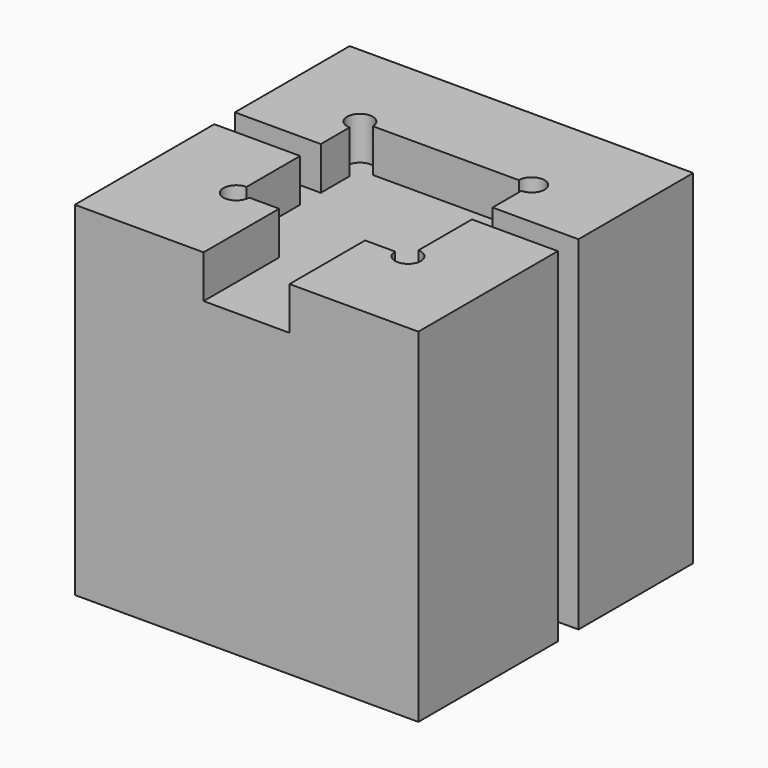
from build123d import *

# Parameters (mm, degrees)
F0_W     = 40
F0_H     = 40
F1_DEPTH = 40
F2_W     = 10
F2_H     = 11
F3_DEPTH = 5
F4_W     = 3
F4_H     = 3
F5_DEPTH = 40.001
F6_W     = 3
F6_H     = 5
F7_DEPTH = 40.001


with BuildPart() as f1:
    # F0 (on Top) → F1 (new body)
    with BuildSketch(Plane.XY):
        Rectangle(F0_W, F0_H)
    extrude(amount=F1_DEPTH)

    # F2 (on face) → F3 (cut)
    with BuildSketch(Plane.XY.offset(40)):
        with BuildLine():
            ThreePointArc((-10, 7.5), (-8.9393398282, 7.9393398282), (-8.5, 9))
            Line((-8.5, 9), (-10, 9))
            Line((-10, 9), (-10, 7.5))
        make_face()
        with BuildLine():
            Line((-10, 9), (-8.5, 9))
            ThreePointArc((-8.5, 9), (-11.0606601718, 10.0606601718), (-10, 7.5))
            Line((-10, 7.5), (-10, 9))
        make_face()
        with BuildLine():
            Line((8.5, 9), (-8.5, 9))
            ThreePointArc((-8.5, 9), (-8.9393398282, 7.9393398282), (-10, 7.5))
            Line((-10, 7.5), (-10, -7.5))
            ThreePointArc((-10, -7.5), (-8.9393398282, -7.9393398282), (-8.5, -9))
            Line((-8.5, -9), (-5, -9))
            Line((-5, -9), (5, -9))
            Line((5, -9), (8.5, -9))
            ThreePointArc((8.5, -9), (8.9393398282, -7.9393398282), (10, -7.5))
            Line((10, -7.5), (10, 7.5))
            ThreePointArc((10, 7.5), (8.9393398282, 7.9393398282), (8.5, 9))
        make_face()
        with BuildLine():
            ThreePointArc((11.5, 9), (10, 10.5), (8.5, 9))
            Line((8.5, 9), (10, 9))
            Line((10, 9), (10, 7.5))
            ThreePointArc((10, 7.5), (11.0606601718, 7.9393398282), (11.5, 9))
        make_face()
        with BuildLine():
            Line((10, 9), (8.5, 9))
            ThreePointArc((8.5, 9), (8.9393398282, 7.9393398282), (10, 7.5))
            Line((10, 7.5), (10, 9))
        make_face()
        with BuildLine():
            ThreePointArc((-8.5, -9), (-8.9393398282, -7.9393398282), (-10, -7.5))
            Line((-10, -7.5), (-10, -9))
            Line((-10, -9), (-8.5, -9))
        make_face()
        with BuildLine():
            Line((-10, -9), (-10, -7.5))
            ThreePointArc((-10, -7.5), (-11.0606601718, -10.0606601718), (-8.5, -9))
            Line((-8.5, -9), (-10, -9))
        make_face()
        with BuildLine():
            ThreePointArc((11.5, -9), (11.0606601718, -7.9393398282), (10, -7.5))
            Line((10, -7.5), (10, -9))
            Line((10, -9), (8.5, -9))
            ThreePointArc((8.5, -9), (10, -10.5), (11.5, -9))
        make_face()
        with BuildLine():
            Line((10, -9), (10, -7.5))
            ThreePointArc((10, -7.5), (8.9393398282, -7.9393398282), (8.5, -9))
            Line((8.5, -9), (10, -9))
        make_face()
        with Locations((0, -14.5)):
            Rectangle(F2_W, F2_H)
    extrude(amount=-F3_DEPTH, mode=Mode.SUBTRACT)

    # F4 (on face) → F5 (cut, through all)
    with BuildSketch(Plane.XY.offset(40)):
        with Locations((-18.5, 1.8)):
            Rectangle(F4_W, F4_H)
        with Locations((18.5, 1.8)):
            Rectangle(F4_W, F4_H)
    extrude(amount=-F5_DEPTH, mode=Mode.SUBTRACT)

    # F6 (on face) → F7 (cut, through all)
    with BuildSketch(Plane(origin=(-20, 0, 0), x_dir=(0, -1, 0), z_dir=(-1, 0, 0))):
        with Locations((-1.8, 37.5)):
            Rectangle(F6_W, F6_H)
        with Locations((-1.8, 2.5)):
            Rectangle(F6_W, F6_H)
    extrude(amount=-F7_DEPTH, mode=Mode.SUBTRACT)


solid = f1.part
